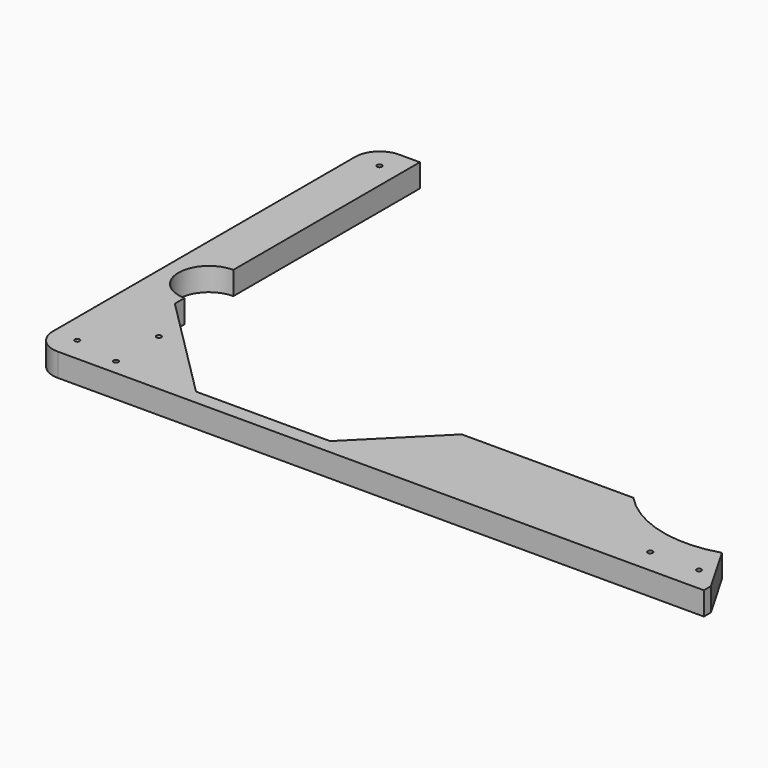
from build123d import *

# Parameters (mm, degrees)
PAD013_DEPTH    = 19
FILLET001_R     = 20
SKETCH022_R     = 2
POCKET013_DEPTH = 19.001
SKETCH027_R     = 2
POCKET017_DEPTH = 19.001
SKETCH069_R     = 2
POCKET044_DEPTH = 19.001


with BuildPart() as part:
    # Sketch015 → Pad013 (new body)
    with BuildSketch(Plane.XY):
        with BuildLine():
            Line((-275, 216.2), (-238, 216.2))
            Line((-238, 216.2), (-238, 25))
            ThreePointArc((-238, 25), (-263, 0), (-238, -25))
            Line((-238, -25), (-238, -35))
            Line((-238, -35), (-151.2, -121.8))
            Line((-151.2, -121.8), (-41.2, -121.8))
            Line((-41.2, -121.8), (18.8, -61.8))
            Line((159.572483, -61.8), (18.8, -61.8))
            ThreePointArc((159.572483, -61.8), (202.10651, -87.039578), (251.554314, -85.993421))
            Line((251.554314, -85.993421), (275, -126.60254))
            Line((275, -126.60254), (275, -133.8))
            Line((275, -133.8), (-275, -133.8))
            Line((-275, -133.8), (-275, 216.2))
        make_face()
    extrude(amount=PAD013_DEPTH)

    # Fillet001
    fillet001_edges = [part.edges().sort_by_distance(p)[0] for p in [
        (-275, 216.2, 9.5),
        (-275, -133.8, 9.5),
    ]]
    fillet(fillet001_edges, radius=FILLET001_R)

    # Sketch022 (on Face5 of Fillet001) → Pocket013 (cut, through all)
    with BuildSketch(Plane.XY.offset(19)):
        with Locations((-255, 196.2)):
            Circle(SKETCH022_R)
        with Locations((-255, -113.8)):
            Circle(SKETCH022_R)
        with Locations((215, -113.8)):
            Circle(SKETCH022_R)
    extrude(amount=-POCKET013_DEPTH, mode=Mode.SUBTRACT)

    # Sketch027 (on Face5 of Pocket013) → Pocket017 (cut, through all)
    with BuildSketch(Plane.XY.offset(19)):
        with Locations((255, -113.8)):
            Circle(SKETCH027_R)
    extrude(amount=-POCKET017_DEPTH, mode=Mode.SUBTRACT)

    # Sketch069 (on Face5 of Pocket017) → Pocket044 (cut, through all)
    with BuildSketch(Plane.XY.offset(19)):
        with Locations((-217.5, -77)):
            Circle(SKETCH069_R)
        with Locations((-217.5, -121)):
            Circle(SKETCH069_R)
    extrude(amount=-POCKET044_DEPTH, mode=Mode.SUBTRACT)


with BuildPart() as part_1:
    # Body009 placement: moved
    add(part.part.moved(Location((0, 0, -9))))


solid = part_1.part
